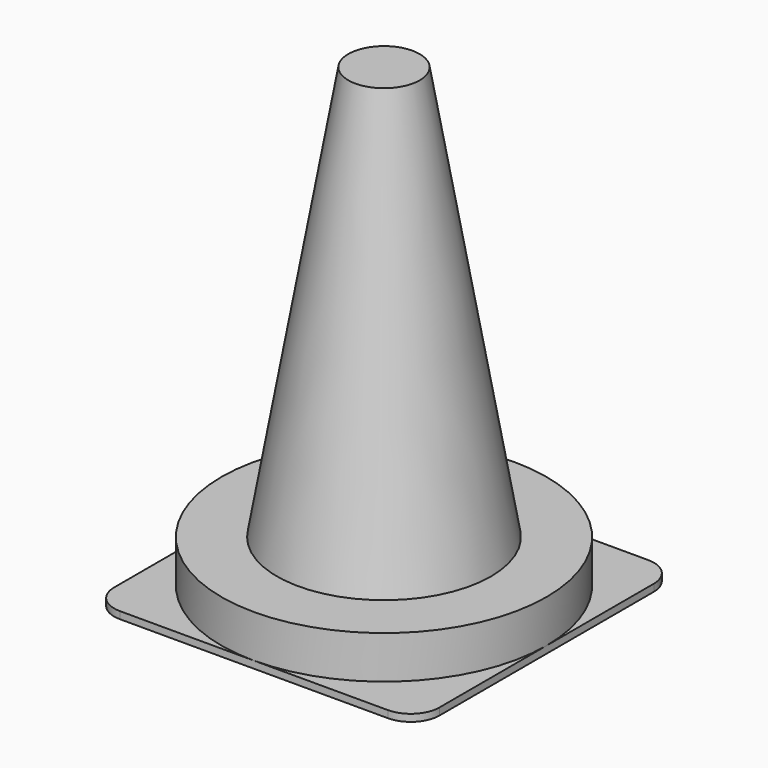
from build123d import *

# Parameters (mm, degrees)
PAD_DEPTH    = 5
SKETCH001_R  = 114
PAD001_DEPTH = 30
SKETCH002_R  = 75
SKETCH003_R  = 25


with BuildPart() as part:
    # Sketch → Pad (new body)
    with BuildSketch(Plane.XY):
        with BuildLine():
            Line((-94, -114), (94, -114))
            ThreePointArc((94, -114), (108.142136, -108.142136), (114, -94))
            Line((114, -94), (114, 94))
            ThreePointArc((114, 94), (108.142136, 108.142136), (94, 114))
            Line((94, 114), (-94, 114))
            ThreePointArc((-94, 114), (-108.142136, 108.142136), (-114, 94))
            Line((-114, 94), (-114, -94))
            ThreePointArc((-114, -94), (-108.142136, -108.142136), (-94, -114))
        make_face()
    extrude(amount=PAD_DEPTH)

    # Sketch001 (on Face10 of Pad) → Pad001 (join)
    with BuildSketch(Plane.XY.offset(5)):
        Circle(SKETCH001_R)
    extrude(amount=PAD001_DEPTH)

    # Sketch002 (on Face15 of Pad001) → AdditiveLoft section 0
    with BuildSketch(Plane.XY.offset(35)):
        Circle(SKETCH002_R)
    # Sketch003 (on DatumPlane) → AdditiveLoft section 1
    with BuildSketch(Plane.XY.offset(325)):
        Circle(SKETCH003_R)
    loft()


solid = part.part
